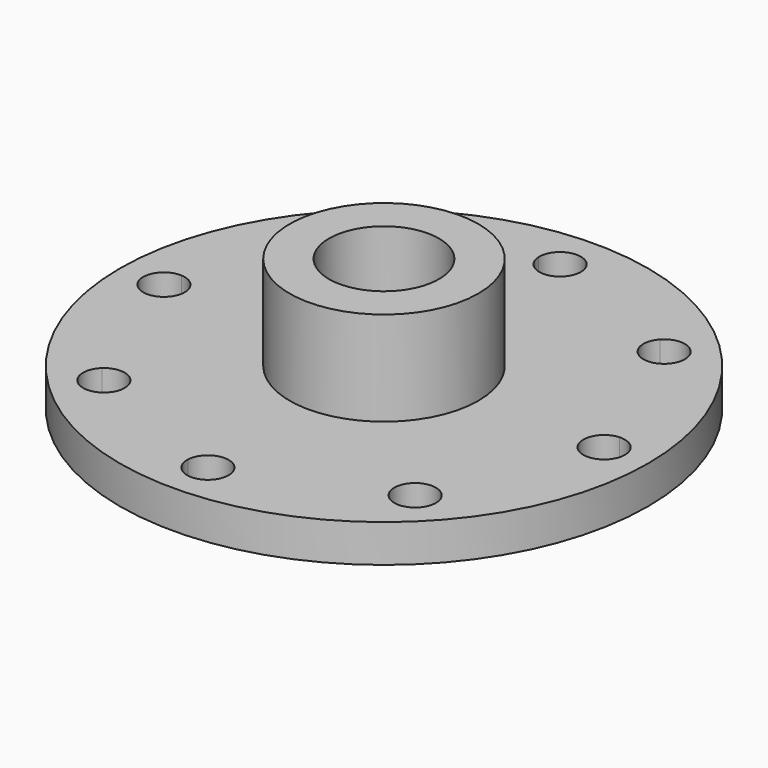
from build123d import *

# Parameters (mm, degrees)
F0_R      = 42
F1_DEPTH  = 9
F2_R      = 42
F2_R_2    = 20
F3_DEPTH  = 3
F4_R      = 15
F5_DEPTH  = 15
F8_DEPTH  = 25
F9_R      = 5
F10_DEPTH = 24.001
F11_D     = 17.5
F11_DEPTH = 20
F11_TIP   = 5.2575304165


with BuildPart() as f1:
    # F0 (on Top) → F1 (new body)
    with BuildSketch(Plane.XY):
        Circle(F0_R)
    extrude(amount=F1_DEPTH)

    # F2 (on face) → F3 (cut)
    with BuildSketch(Plane(origin=(0, 0, 0), x_dir=(1, 0, 0), z_dir=(0, 0, -1))):
        Circle(F2_R)
        Circle(F2_R_2, mode=Mode.SUBTRACT)
    extrude(amount=-F3_DEPTH, mode=Mode.SUBTRACT)

    # F4 (on face) → F5 (join)
    with BuildSketch(Plane.XY.offset(9)):
        Circle(F4_R)
    extrude(amount=F5_DEPTH)

    # F7 (on face) → F8 (cut)
    with BuildSketch(Plane.XY.offset(9)):
        with BuildLine():
            ThreePointArc((-3.2963309195, 34.8444285714), (0, 31.7), (3.2963309195, 34.8444285714))
            ThreePointArc((3.2963309195, 34.8444285714), (0, 35), (-3.2963309195, 34.8444285714))
        make_face()
        with BuildLine():
            ThreePointArc((-3.2963309195, 34.8444285714), (0, 35), (3.2963309195, 34.8444285714))
            ThreePointArc((3.2963309195, 34.8444285714), (3.2990826023, 34.9221926553), (3.3, 35))
            ThreePointArc((3.3, 35), (-0.0778073447, 38.2990826023), (-3.2963309195, 34.8444285714))
        make_face()
        with BuildLine():
            ThreePointArc((-21.4487373415, 24.7487373415), (-21.6710068674, 25.9393569822), (-22.3078737832, 26.9695896756))
            ThreePointArc((-22.3078737832, 26.9695896756), (-24.7487373415, 24.7487373415), (-26.9695896756, 22.3078737832))
            ThreePointArc((-26.9695896756, 22.3078737832), (-23.4143484744, 21.7305580309), (-21.4487373415, 24.7487373415))
        make_face()
        with BuildLine():
            ThreePointArc((-26.9695896756, 22.3078737832), (-24.7487373415, 24.7487373415), (-22.3078737832, 26.9695896756))
            ThreePointArc((-22.3078737832, 26.9695896756), (-27.0821897194, 27.0821897194), (-26.9695896756, 22.3078737832))
        make_face()
        with BuildLine():
            ThreePointArc((-31.7, 0), (-32.6121782191, 2.2777855788), (-34.8444285714, 3.2963309195))
            ThreePointArc((-34.8444285714, 3.2963309195), (-35, 0), (-34.8444285714, -3.2963309195))
            ThreePointArc((-34.8444285714, -3.2963309195), (-32.6121782191, -2.2777855788), (-31.7, 0))
        make_face()
        with BuildLine():
            ThreePointArc((-34.8444285714, -3.2963309195), (-35, 0), (-34.8444285714, 3.2963309195))
            ThreePointArc((-34.8444285714, 3.2963309195), (-38.3, 0), (-34.8444285714, -3.2963309195))
        make_face()
        with BuildLine():
            ThreePointArc((-26.9695896756, -22.3078737832), (-27.0821897194, -27.0821897194), (-22.3078737832, -26.9695896756))
            ThreePointArc((-22.3078737832, -26.9695896756), (-24.7487373415, -24.7487373415), (-26.9695896756, -22.3078737832))
        make_face()
        with BuildLine():
            ThreePointArc((-26.9695896756, -22.3078737832), (-24.7487373415, -24.7487373415), (-22.3078737832, -26.9695896756))
            ThreePointArc((-22.3078737832, -26.9695896756), (-21.6710068674, -25.9393569822), (-21.4487373415, -24.7487373415))
            ThreePointArc((-21.4487373415, -24.7487373415), (-23.4143484744, -21.7305580309), (-26.9695896756, -22.3078737832))
        make_face()
        with BuildLine():
            ThreePointArc((-3.2963309195, -34.8444285714), (0, -35), (3.2963309195, -34.8444285714))
            ThreePointArc((3.2963309195, -34.8444285714), (0, -31.7), (-3.2963309195, -34.8444285714))
        make_face()
        with BuildLine():
            ThreePointArc((3.3, -35), (3.2990826023, -34.9221926553), (3.2963309195, -34.8444285714))
            ThreePointArc((3.2963309195, -34.8444285714), (0, -35), (-3.2963309195, -34.8444285714))
            ThreePointArc((-3.2963309195, -34.8444285714), (-0.0778073447, -38.2990826023), (3.3, -35))
        make_face()
        with BuildLine():
            ThreePointArc((28.0487373415, -24.7487373415), (27.7669166522, -23.4143484744), (26.9695896756, -22.3078737832))
            ThreePointArc((26.9695896756, -22.3078737832), (24.7487373415, -24.7487373415), (22.3078737832, -26.9695896756))
            ThreePointArc((22.3078737832, -26.9695896756), (25.9393569822, -27.8264678156), (28.0487373415, -24.7487373415))
        make_face()
        with BuildLine():
            ThreePointArc((22.3078737832, -26.9695896756), (24.7487373415, -24.7487373415), (26.9695896756, -22.3078737832))
            ThreePointArc((26.9695896756, -22.3078737832), (22.4152849636, -22.4152849636), (22.3078737832, -26.9695896756))
        make_face()
        with BuildLine():
            ThreePointArc((34.8444285714, 3.2963309195), (34.9610855095, 1.65), (35, 0))
            ThreePointArc((35, 0), (34.9610855095, -1.65), (34.8444285714, -3.2963309195))
            ThreePointArc((34.8444285714, -3.2963309195), (37.2777855788, -2.3878217809), (38.3, 0))
            ThreePointArc((38.3, 0), (37.2777855788, 2.3878217809), (34.8444285714, 3.2963309195))
        make_face()
        with BuildLine():
            ThreePointArc((34.8444285714, -3.2963309195), (34.9610855095, -1.65), (35, 0))
            ThreePointArc((35, 0), (34.9610855095, 1.65), (34.8444285714, 3.2963309195))
            ThreePointArc((34.8444285714, 3.2963309195), (31.7, 0), (34.8444285714, -3.2963309195))
        make_face()
        with BuildLine():
            ThreePointArc((22.3078737832, 26.9695896756), (22.4152849636, 22.4152849636), (26.9695896756, 22.3078737832))
            ThreePointArc((26.9695896756, 22.3078737832), (24.7487373415, 24.7487373415), (22.3078737832, 26.9695896756))
        make_face()
        with BuildLine():
            ThreePointArc((22.3078737832, 26.9695896756), (24.7487373415, 24.7487373415), (26.9695896756, 22.3078737832))
            ThreePointArc((26.9695896756, 22.3078737832), (27.7669166522, 23.4143484744), (28.0487373415, 24.7487373415))
            ThreePointArc((28.0487373415, 24.7487373415), (25.9393569822, 27.8264678156), (22.3078737832, 26.9695896756))
        make_face()
    extrude(amount=-F8_DEPTH, mode=Mode.SUBTRACT)

    # F9 (on face) → F10 (cut, through all)
    with BuildSketch(Plane(origin=(0, 0, 0), x_dir=(1, 0, 0), z_dir=(0, 0, -1))):
        Circle(F9_R)
    extrude(amount=-F10_DEPTH, mode=Mode.SUBTRACT)

    # F11
    with Locations(Plane.XY.offset(24)):
        with Locations((0, 0)):
            Hole(F11_D / 2, depth=F11_DEPTH)
            with Locations((0, 0, -(F11_DEPTH + F11_TIP / 2))):  # 118° drill point
                Cone(0, F11_D / 2, F11_TIP, mode=Mode.SUBTRACT)


solid = f1.part
